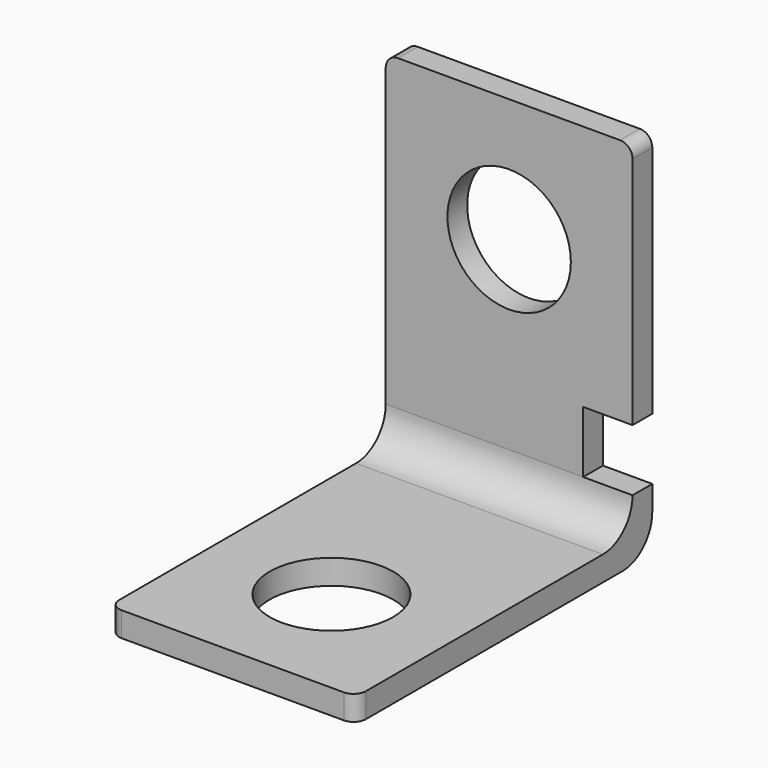
from build123d import *

# Parameters (mm, degrees)
F1_DEPTH = 20
F2_R     = 5
F2_W     = 4
F2_H     = 5
F3_DEPTH = 2.001
F4_R     = 5
F5_DEPTH = 2.001
F6_R     = 3
F7_R     = 1


with BuildPart() as f1:
    # F0 (on Right) → F1 (new body)
    with BuildSketch(Plane.YZ):
        Polygon((0, 2), (0, 0), (30, 0), (30, 30), (28, 30), (28, 2), align=None)
    extrude(amount=F1_DEPTH)

    # F2 (on face) → F3 (cut, through all)
    with BuildSketch(Plane.XZ.offset(-28)):
        with Locations((10, 20)):
            Circle(F2_R)
        with Locations((18, 7.5)):
            Rectangle(F2_W, F2_H)
    extrude(amount=-F3_DEPTH, mode=Mode.SUBTRACT)

    # F4 (on face) → F5 (cut, through all)
    with BuildSketch(Plane.XY.offset(2)):
        with Locations((10, 10)):
            Circle(F4_R)
    extrude(amount=-F5_DEPTH, mode=Mode.SUBTRACT)

    # F6
    f6_edges = [f1.edges().sort_by_distance(p)[0] for p in [
        (10, 28, 2),
        (10, 30, 0),
    ]]
    fillet(f6_edges, radius=F6_R)

    # F7
    f7_edges = [f1.edges().sort_by_distance(p)[0] for p in [
        (0, 0, 1),
        (20, 0, 1),
        (20, 29, 30),
        (0, 29, 30),
    ]]
    fillet(f7_edges, radius=F7_R)


solid = f1.part
